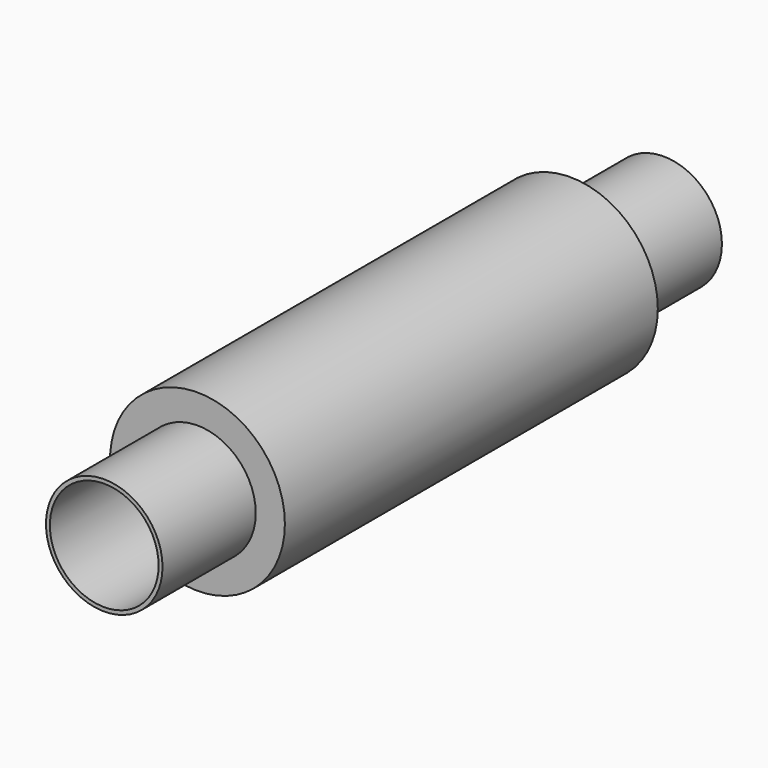
from build123d import *

# Parameters (mm, degrees)
F0_R     = 2.8575
F1_DEPTH = 7.62
F2_R     = 1.905
F3_DEPTH = 11.43
F4_R     = 1.778
F5_DEPTH = 22.606


with BuildPart() as f1:
    # F0 (on Front) → F1 (new body, symmetric)
    with BuildSketch(Plane.XZ):
        Circle(F0_R)
    extrude(amount=F1_DEPTH, both=True)

    # F2 (on Front) → F3 (join, symmetric)
    with BuildSketch(Plane.XZ):
        Circle(F2_R)
    extrude(amount=F3_DEPTH, both=True)

    # F4 (on face) → F5 (cut)
    with BuildSketch(Plane.XZ.offset(11.43)):
        Circle(F4_R)
    extrude(amount=-F5_DEPTH, mode=Mode.SUBTRACT)


solid = f1.part
